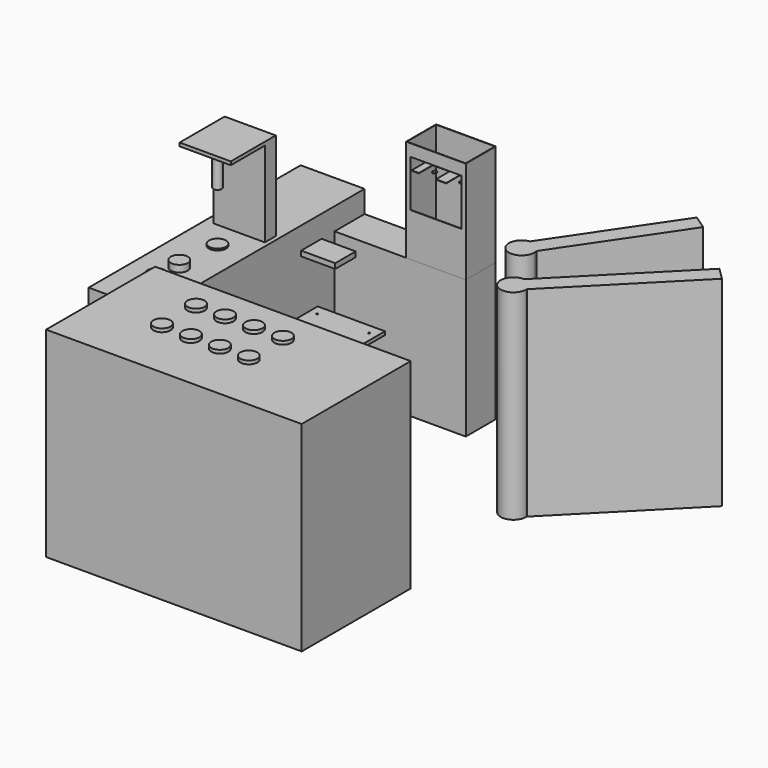
from build123d import *

# Parameters (mm, degrees)
F0_W      = 395
F0_H      = 280
F1_DEPTH  = 40
F2_W      = 150
F2_H      = 150
F3_DEPTH  = 850
F4_W      = 395
F4_H      = 280
F4_R      = 5
F5_DEPTH  = 20
F7_DEPTH  = 810
F8_W      = 350
F8_H      = 220
F9_DEPTH  = 600
F11_T     = -2.5
F10_W     = 300
F10_H     = 275
F12_DEPTH = 2.5
F14_R     = 12.5
F15_DEPTH = 2
F17_DEPTH = 1175
F18_DEPTH = 1175
F19_W     = 700
F19_H     = 150
F19_H_2   = 155
F20_DEPTH = 30
F22_DEPTH = 130
F23_R     = 50
F24_DEPTH = 10
F23_W     = 300
F23_H     = 80
F25_DEPTH = 500
F26_W     = 300
F26_H     = 330
F26_R     = 25
F27_DEPTH = 20
F28_DEPTH = 200
F29_DEPTH = 40
F30_W     = 1500
F30_H     = 800
F31_DEPTH = 1175
F32_R     = 50
F33_DEPTH = 20


with BuildPart() as f1:
    # F0 (on Top) → F1 (new body)
    with BuildSketch(Plane.XY):
        Rectangle(F0_W, F0_H)
    extrude(amount=F1_DEPTH)

    # F2 (on face) → F3 (join)
    with BuildSketch(Plane.XY.offset(40)):
        Rectangle(F2_W, F2_H)
    extrude(amount=F3_DEPTH)

    # F4 (on face) → F5 (join)
    with BuildSketch(Plane.XY.offset(890)):
        Rectangle(F4_W, F4_H)
        with Locations((-152.5, -80)):
            Circle(F4_R, mode=Mode.SUBTRACT)
        with Locations((152.5, -80)):
            Circle(F4_R, mode=Mode.SUBTRACT)
        with Locations((-152.5, 80)):
            Circle(F4_R, mode=Mode.SUBTRACT)
        with Locations((152.5, 80)):
            Circle(F4_R, mode=Mode.SUBTRACT)
    extrude(amount=F5_DEPTH)


with BuildPart() as f7:
    # F6 (on Top) → F7 (new body)
    with BuildSketch(Plane.XY):
        Polygon((-722.5, 920), (47.5, 920), (47.5, 1140), (-1097.5, 1140), (-1097.5, -415), (-722.5, -415), align=None)
    extrude(amount=F7_DEPTH)

    # F19 (on face) → F20 (join)
    with BuildSketch(Plane.XY.offset(810)):
        with Locations((-872.5, 750)):
            Rectangle(F19_W, F19_H)
        with Locations((-847.5, -82.5)):
            Rectangle(F19_W, F19_H_2)
    extrude(amount=-F20_DEPTH)

    # F21 (on face) → F22 (join)
    with BuildSketch(Plane.XY.offset(810)):
        Polygon((-722.5, 1140), (-1097.5, 1140), (-1097.5, 675), (-1097.5, -160), (-1097.5, -415), (-722.5, -415), (-722.5, -160), (-722.5, 675), align=None)
    extrude(amount=F22_DEPTH)

    # F23 (on face) → F24 (join)
    with BuildSketch(Plane.XY.offset(940)):
        with Locations((-897.5, 280)):
            Circle(F23_R)
    extrude(amount=F24_DEPTH)

    # F23 (on face) → F25 (join)
    with BuildSketch(Plane.XY.offset(940)):
        with Locations((-897.5, 480)):
            Rectangle(F23_W, F23_H)
    extrude(amount=F25_DEPTH)

    # F26 (on face) → F27 (join)
    with BuildSketch(Plane.XY.offset(1440)):
        with Locations((-897.5, 355)):
            Rectangle(F26_W, F26_H)
        with Locations((-897.5, 280)):
            Circle(F26_R, mode=Mode.SUBTRACT)
        with Locations((-897.5, 280)):
            Circle(F26_R)
    extrude(amount=F27_DEPTH)

    # F26 (on face) → F28 (join)
    with BuildSketch(Plane.XY.offset(1440)):
        with Locations((-897.5, 280)):
            Circle(F26_R)
    extrude(amount=-F28_DEPTH)

    # F23 (on face) → F29 (join)
    with BuildSketch(Plane.XY.offset(940)):
        with Locations((-897.5, 0)):
            Circle(F23_R)
        with Locations((-897.5, -170)):
            Circle(F23_R)
    extrude(amount=F29_DEPTH)


with BuildPart() as f9:
    # F8 (on face) → F9 (new body)
    with BuildSketch(Plane.XY.offset(810)):
        with Locations((-127.5, 1030)):
            Rectangle(F8_W, F8_H)
    extrude(amount=F9_DEPTH)

    # F11
    f11_openings = [f9.faces().sort_by_distance(p)[0] for p in [
        (-127.5, 1030, 1410),
    ]]
    offset(amount=F11_T, openings=f11_openings)

    # F10 (on face) → F12 (cut, through all)
    with BuildSketch(Plane.XZ.offset(-920)):
        with Locations((-127.5, 1202.5)):
            Rectangle(F10_W, F10_H)
    extrude(amount=-F12_DEPTH, mode=Mode.SUBTRACT)


with BuildPart() as f15:
    # F14 (on offset) → F15 (new body)
    with BuildSketch(Plane.XY.offset(1247.5)):
        with Locations((-47.5, 1010)):
            Circle(F14_R)
    extrude(amount=-F15_DEPTH)


with BuildPart() as f15b:
    # F14 (on offset) → F15, piece 2 (new body)
    with BuildSketch(Plane.XY.offset(1247.5)):
        with BuildLine():
            Line((2.5, 1055), (2.5, 957.5))
            Line((2.5, 957.5), (45, 957.5))
            Line((45, 957.5), (45, 1137.5))
            Line((45, 1137.5), (-300, 1137.5))
            Line((-300, 1137.5), (-300, 957.5))
            Line((-300, 957.5), (-257.5, 957.5))
            Line((-257.5, 957.5), (-257.5, 1055))
            ThreePointArc((-257.5, 1055), (-256.0355339059, 1058.5355339059), (-252.5, 1060))
            Line((-252.5, 1060), (-162.5, 1060))
            ThreePointArc((-162.5, 1060), (-158.9644660941, 1058.5355339059), (-157.5, 1055))
            Line((-157.5, 1055), (-157.5, 957.5))
            Line((-157.5, 957.5), (-97.5, 957.5))
            Line((-97.5, 957.5), (-97.5, 1055))
            ThreePointArc((-97.5, 1055), (-96.0355339059, 1058.5355339059), (-92.5, 1060))
            Line((-92.5, 1060), (-2.5, 1060))
            ThreePointArc((-2.5, 1060), (1.0355339059, 1058.5355339059), (2.5, 1055))
        make_face()
    extrude(amount=-F15_DEPTH)


with BuildPart() as f15c:
    # F14 (on offset) → F15, piece 3 (new body)
    with BuildSketch(Plane.XY.offset(1247.5)):
        with Locations((-207.5, 1010)):
            Circle(F14_R)
    extrude(amount=-F15_DEPTH)


with BuildPart() as f17:
    # F16 (on Top) → F17 (new body)
    with BuildSketch(Plane.XY):
        with BuildLine():
            ThreePointArc((477.4186751829, 854.3193574376), (438.1598508377, 723.5150490782), (562.5, 780))
            ThreePointArc((562.5, 780), (561.9326097969, 789.2079638808), (560.2390240312, 798.276607535))
            ThreePointArc((560.2390240312, 798.276607535), (529.5320624269, 842.1152616362), (477.4186751829, 854.3193574376))
        make_face()
        with BuildLine():
            ThreePointArc((477.4186751829, 854.3193574376), (529.5320624269, 842.1152616362), (560.2390240312, 798.276607535))
            Line((560.2390240312, 798.276607535), (1008.581023252, 1460.8393983214))
            Line((1008.581023252, 1460.8393983214), (925.7606744037, 1516.882148224))
            Line((925.7606744037, 1516.882148224), (477.4186751829, 854.3193574376))
        make_face()
    extrude(amount=F17_DEPTH)


with BuildPart() as f18:
    # F16 (on Top) → F18 (new body)
    with BuildSketch(Plane.XY):
        with BuildLine():
            ThreePointArc((691.3013553771, 544.903602699), (633.1396208012, 418.3284490908), (762.5, 470))
            ThreePointArc((762.5, 470), (762.4655349965, 472.2734473127), (762.3621716618, 474.5448051755))
            ThreePointArc((762.3621716618, 474.5448051755), (740.2690981427, 523.2956122135), (691.3013553771, 544.903602699))
        make_face()
        with BuildLine():
            ThreePointArc((691.3013553771, 544.903602699), (740.2690981427, 523.2956122135), (762.3621716618, 474.5448051755))
            Line((762.3621716618, 474.5448051755), (1395.5913493736, 1114.0921517374))
            Line((1395.5913493736, 1114.0921517374), (1324.530533089, 1184.4509492609))
            Line((1324.530533089, 1184.4509492609), (691.3013553771, 544.903602699))
        make_face()
    extrude(amount=F18_DEPTH)


with BuildPart() as f31:
    # F30 (on Top) → F31 (new body)
    with BuildSketch(Plane.XY):
        with Locations((42.5, -815)):
            Rectangle(F30_W, F30_H)
    extrude(amount=F31_DEPTH)

    # F32 (on face) → F33 (join)
    with BuildSketch(Plane.XY.offset(1175)):
        with Locations((-307.5, -615)):
            Circle(F32_R)
        with Locations((-307.5, -865)):
            Circle(F32_R)
        with Locations((-137.5, -615)):
            Circle(F32_R)
        with Locations((-137.5, -865)):
            Circle(F32_R)
        with Locations((32.5, -615)):
            Circle(F32_R)
        with Locations((32.5, -865)):
            Circle(F32_R)
        with Locations((202.5, -615)):
            Circle(F32_R)
        with Locations((202.5, -865)):
            Circle(F32_R)
    extrude(amount=F33_DEPTH)


solid = Compound([f1.part, f7.part, f9.part, f15.part, f15b.part, f15c.part, f17.part, f18.part, f31.part])
